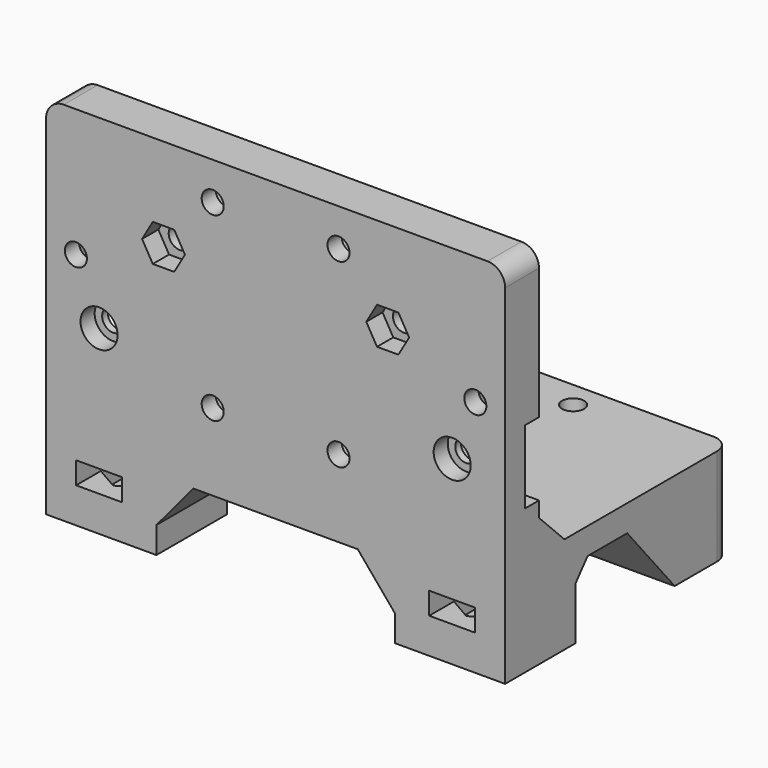
from build123d import *

# Parameters (mm, degrees)
PAD009_DEPTH         = 26
SKETCH025_R          = 1.25
POCKET011_DEPTH      = 32.001
POCKET012_DEPTH      = 32.001
SKETCH031_R          = 1.4
POCKET015_DEPTH      = 9
POCKET016_DEPTH      = 2
POCKET017_DEPTH      = 2.5
SKETCH034_R          = 1.25
POCKET018_DEPTH      = 41.501
SKETCH035_R          = 3
POCKET019_DEPTH      = 30.501
POCKET020_DEPTH      = 9.001
POCKET021_DEPTH      = 30.001
POCKET022_DEPTH      = 32.001
POCKET023_DEPTH      = 41.501
SKETCH046_R          = 1.25
POCKET026_DEPTH      = 32.001
POCKET027_DEPTH      = 2.3
POCKET034_DEPTH      = 26.001
POCKET034_DEPTH_BACK = 26.001
SKETCH065_W          = 52.3
SKETCH065_H          = 8.3
POCKET035_DEPTH      = 29.201
SKETCH066_R          = 1.25
POCKET036_DEPTH      = 32.001
SKETCH067_R          = 2.1
POCKET037_DEPTH      = 2


with BuildPart() as part:
    # Sketch016 → Pad009 (new body, symmetric)
    with BuildSketch(Plane.YZ):
        Polygon((0, 0), (32, 0), (32, 11), (8.4, 11), (4.8, 14.6), (4.8, 41.5), (0, 41.5), align=None)
    extrude(amount=PAD009_DEPTH, both=True)

    # Sketch025 → Pocket011 (cut, through all)
    with BuildSketch(Plane.XZ):
        with Locations((-22.625, 27)):
            Circle(SKETCH025_R)
        with Locations((7.125, 37.25)):
            Circle(SKETCH025_R)
        with Locations((7.125, 16.75)):
            Circle(SKETCH025_R)
        with Locations((-7.125, 37.25)):
            Circle(SKETCH025_R)
        with Locations((-7.125, 16.75)):
            Circle(SKETCH025_R)
        with Locations((22.625, 27)):
            Circle(SKETCH025_R)
    extrude(amount=-POCKET011_DEPTH, mode=Mode.SUBTRACT)

    # Sketch026 → Pocket012 (cut, through all)
    with BuildSketch(Plane.XZ):
        Polygon((-13.5, 0), (13.5, 0), (13.5, 3), (9.304502, 8), (-9.304502, 8), (-13.5, 3), align=None)
    extrude(amount=-POCKET012_DEPTH, mode=Mode.SUBTRACT)

    # Sketch031 → Pocket015 (cut)
    with BuildSketch(Plane.XY):
        with Locations((-20, 26)):
            Circle(SKETCH031_R)
        with Locations((20, 26)):
            Circle(SKETCH031_R)
        with Locations((-20, 5)):
            Circle(SKETCH031_R)
        with Locations((20, 5)):
            Circle(SKETCH031_R)
    extrude(amount=POCKET015_DEPTH, mode=Mode.SUBTRACT)

    # Sketch032 (on DatumPlane) → Pocket016 (cut)
    with BuildSketch(Plane.XY.offset(2)):
        Polygon((-20, 29.002221), (-22.6, 27.501111), (-22.6, 24.498889), (-20, 22.997779), (-17.4, 24.498889), (-17.4, 27.501111), align=None)
        Polygon((20, 29.002221), (17.4, 27.501111), (17.4, 24.498889), (20, 22.997779), (22.6, 24.498889), (22.6, 27.501111), align=None)
        Polygon((-20, 8.002221), (-22.6, 6.501111), (-22.6, 3.498889), (-20, 1.997779), (-17.4, 3.498889), (-17.4, 6.501111), align=None)
        Polygon((20, 8.002221), (17.4, 6.501111), (17.4, 3.498889), (20, 1.997779), (22.6, 3.498889), (22.6, 6.501111), align=None)
    extrude(amount=POCKET016_DEPTH, mode=Mode.SUBTRACT)

    # Sketch033 (on DatumPlane) → Pocket017 (cut)
    with BuildSketch(Plane.XY.offset(4)):
        Polygon((-20, 22.997779), (-17.4, 24.498889), (-17.4, 27.501111), (-17.4, 47.501111), (-22.6, 47.501111), (-22.6, 27.501111), (-22.6, 24.498889), align=None)
        Polygon((20, 22.997779), (22.6, 24.498889), (22.6, 27.501111), (22.6, 47.501111), (17.4, 47.501111), (17.4, 27.501111), (17.4, 24.498889), align=None)
        Polygon((-20, 8.002221), (-22.6, 6.501111), (-22.6, 3.498889), (-22.6, -16.501111), (-17.4, -16.501111), (-17.4, 3.498889), (-17.4, 6.501111), align=None)
        Polygon((20, 8.002221), (17.4, 6.501111), (17.4, 3.498889), (17.4, -16.501111), (22.6, -16.501111), (22.6, 3.498889), (22.6, 6.501111), align=None)
    extrude(amount=POCKET017_DEPTH, mode=Mode.SUBTRACT)

    # Sketch034 → Pocket018 (cut, through all)
    with BuildSketch(Plane.XY):
        with Locations((-10.5, 29)):
            Circle(SKETCH034_R)
        with Locations((10.5, 29)):
            Circle(SKETCH034_R)
        with Locations((10.5, 9)):
            Circle(SKETCH034_R)
        with Locations((-10.5, 9)):
            Circle(SKETCH034_R)
    extrude(amount=POCKET018_DEPTH, mode=Mode.SUBTRACT)

    # Sketch035 (on DatumPlane) → Pocket019 (cut, through all)
    with BuildSketch(Plane.XY.offset(11)):
        with Locations((-10.5, 9)):
            Circle(SKETCH035_R)
        with Locations((10.5, 9)):
            Circle(SKETCH035_R)
    extrude(amount=POCKET019_DEPTH, mode=Mode.SUBTRACT)

    # Sketch036 (on DatumPlane) → Pocket020 (cut, through all)
    with BuildSketch(Plane.XY.offset(9)):
        Polygon((-10.5, 26.575129), (-8.4, 27.787564), (-8.4, 30.212436), (-8.4, 46.212436), (-12.6, 46.212436), (-12.6, 30.212436), (-12.6, 27.787564), align=None)
        Polygon((10.5, 26.575129), (12.6, 27.787564), (12.6, 30.212436), (12.6, 46.212436), (8.4, 46.212436), (8.4, 30.212436), (8.4, 27.787564), align=None)
        Polygon((-10.5, 11.424871), (-12.6, 10.212436), (-12.6, 7.787564), (-10.5, 6.575129), (-8.4, 7.787564), (-8.4, 10.212436), align=None)
        Polygon((10.5, 11.424871), (8.4, 10.212436), (8.4, 7.787564), (10.5, 6.575129), (12.6, 7.787564), (12.6, 10.212436), align=None)
    extrude(amount=-POCKET020_DEPTH, mode=Mode.SUBTRACT)

    # Sketch037 (on DatumPlane) → Pocket021 (cut, through all)
    with BuildSketch(Plane.XZ.offset(-2)):
        Polygon((-22.625, 29.424871), (-24.725, 28.212436), (-24.725, 25.787564), (-24.725, 24.575129), (-20.525, 24.575129), (-20.525, 25.787564), (-20.525, 28.212436), align=None)
        Polygon((4.700129, 37.25), (5.912564, 35.15), (8.337436, 35.15), (9.549871, 37.25), (8.337436, 39.35), (5.912564, 39.35), align=None)
        Polygon((4.700129, 16.75), (5.912564, 14.65), (8.337436, 14.65), (9.549871, 16.75), (8.337436, 18.85), (5.912564, 18.85), align=None)
        Polygon((-4.700129, 37.25), (-5.912564, 39.35), (-8.337436, 39.35), (-9.549871, 37.25), (-8.337436, 35.15), (-5.912564, 35.15), align=None)
        Polygon((-9.549871, 16.75), (-8.337436, 14.65), (-5.912564, 14.65), (-4.700129, 16.75), (-5.912564, 18.85), (-8.337436, 18.85), align=None)
        Polygon((22.625, 29.424871), (20.525, 28.212436), (20.525, 25.787564), (20.525, 24.575129), (24.725, 24.575129), (24.725, 25.787564), (24.725, 28.212436), align=None)
    extrude(amount=-POCKET021_DEPTH, mode=Mode.SUBTRACT)

    # Sketch038 → Pocket022 (cut, through all)
    with BuildSketch(Plane.XZ):
        with BuildLine():
            Line((-24, 41.5), (24, 41.5))
            ThreePointArc((26, 39.5), (25.414214, 40.914214), (24, 41.5))
            Line((26, 39.5), (26, 0))
            Line((26, 0), (36, 0))
            Line((36, 51.5), (36, 0))
            Line((-36, 51.5), (36, 51.5))
            Line((-36, 0), (-36, 51.5))
            Line((-26, 0), (-36, 0))
            Line((-26, 39.5), (-26, 0))
            ThreePointArc((-24, 41.5), (-25.414214, 40.914214), (-26, 39.5))
        make_face()
    extrude(amount=-POCKET022_DEPTH, mode=Mode.SUBTRACT)

    # Sketch039 → Pocket023 (cut, through all)
    with BuildSketch(Plane.XY):
        with BuildLine():
            Line((-26, 0), (-26, 30))
            ThreePointArc((-24, 32), (-25.414214, 31.414214), (-26, 30))
            Line((-24, 32), (24, 32))
            ThreePointArc((26, 30), (25.414214, 31.414214), (24, 32))
            Line((26, 30), (26, 0))
            Line((26, 0), (36, 0))
            Line((36, 42), (36, 0))
            Line((-36, 42), (36, 42))
            Line((-36, 0), (-36, 42))
            Line((-26, 0), (-36, 0))
        make_face()
    extrude(amount=POCKET023_DEPTH, mode=Mode.SUBTRACT)

    # Sketch046 → Pocket026 (cut, through all)
    with BuildSketch(Plane.XZ):
        with Locations((-12.7, 31)):
            Circle(SKETCH046_R)
        with Locations((12.7, 31)):
            Circle(SKETCH046_R)
    extrude(amount=-POCKET026_DEPTH, mode=Mode.SUBTRACT)

    # Sketch047 → Pocket027 (cut)
    with BuildSketch(Plane.XZ):
        Polygon((15.124871, 31), (13.912436, 33.1), (11.487564, 33.1), (10.275129, 31), (11.487564, 28.9), (13.912436, 28.9), align=None)
        Polygon((-10.275129, 31), (-11.487564, 33.1), (-13.912436, 33.1), (-15.124871, 31), (-13.912436, 28.9), (-11.487564, 28.9), align=None)
    extrude(amount=-POCKET027_DEPTH, mode=Mode.SUBTRACT)

    # Sketch064 → Pocket034 (cut, two sides)
    with BuildSketch(Plane.YZ) as pocket034_sk:
        Polygon((10, 0), (24, 0), (17.287203, 8), (11.678199, 8), (10, 6), align=None)
    extrude(amount=-POCKET034_DEPTH, mode=Mode.SUBTRACT)
    extrude(pocket034_sk.sketch, amount=POCKET034_DEPTH_BACK, mode=Mode.SUBTRACT)

    # Sketch065 (on DatumPlane) → Pocket035 (cut, through all)
    with BuildSketch(Plane.XZ.offset(-2.8)):
        with Locations((0, 20.5)):
            Rectangle(SKETCH065_W, SKETCH065_H)
    extrude(amount=-POCKET035_DEPTH, mode=Mode.SUBTRACT)

    # Sketch066 → Pocket036 (cut, through all)
    with BuildSketch(Plane.XZ):
        with Locations((-20, 20.5)):
            Circle(SKETCH066_R)
        with Locations((20, 20.5)):
            Circle(SKETCH066_R)
    extrude(amount=-POCKET036_DEPTH, mode=Mode.SUBTRACT)

    # Sketch067 → Pocket037 (cut)
    with BuildSketch(Plane.XZ):
        with Locations((-20, 20.5)):
            Circle(SKETCH067_R)
        with Locations((20, 20.5)):
            Circle(SKETCH067_R)
    extrude(amount=-POCKET037_DEPTH, mode=Mode.SUBTRACT)


solid = part.part
